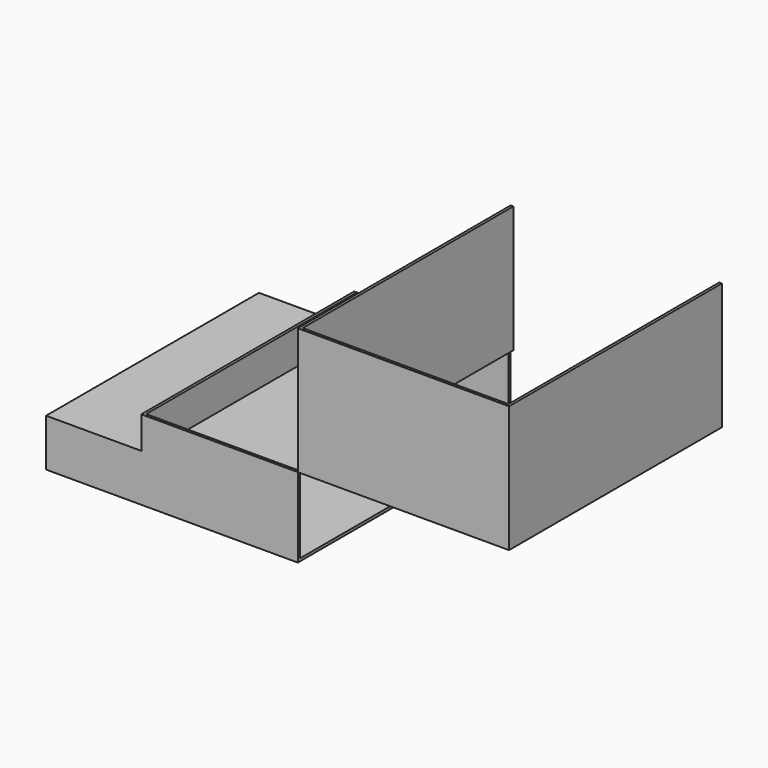
from build123d import *

# Parameters (mm, degrees)
F0_W     = 201.6101973131
F0_H     = 120.8766028285
F1_DEPTH = 254
F0_W_2   = 90.8812731504
F0_H_2   = 45.3207865357
F2_T     = -2.54
F2_2_T   = -2.54


with BuildPart() as f1:
    # F0 (on Front) → F1 (new body)
    with BuildSketch(Plane.XZ):
        with Locations((92.709352728, 22.8455923498)):
            Rectangle(F0_W, F0_H)
    extrude(amount=F1_DEPTH)

    # F2
    f2_openings = [f1.faces().sort_by_distance(p)[0] for p in [
        (92.709353, -127, 83.283894),
        (92.709353, -127, -37.592709),
        (92.709353, 0, 22.845592),
    ]]
    offset(amount=F2_T, openings=f2_openings)


with BuildPart() as f1b:
    # F0 (on Front) → F1, piece 2 (new body)
    with BuildSketch(Plane.XZ):
        with Locations((-202.9159590602, -90.9597761929)):
            Rectangle(F0_W_2, F0_H_2)
        Polygon((-157.475322485, -37.5927090645), (-157.475322485, -68.299382925), (-157.475322485, -113.6201694608), (-8.0957459286, -113.6201694608), (-8.0957459286, -37.5927090645), align=None)
    extrude(amount=F1_DEPTH)

    # F2#2
    f2_2_openings = [f1b.faces().sort_by_distance(p)[0] for p in [
        (-82.785534, -127, -37.592709),
        (-8.095746, -127, -75.606439),
    ]]
    offset(amount=F2_2_T, openings=f2_2_openings, kind=Kind.INTERSECTION)


solid = Compound([f1.part, f1b.part])
